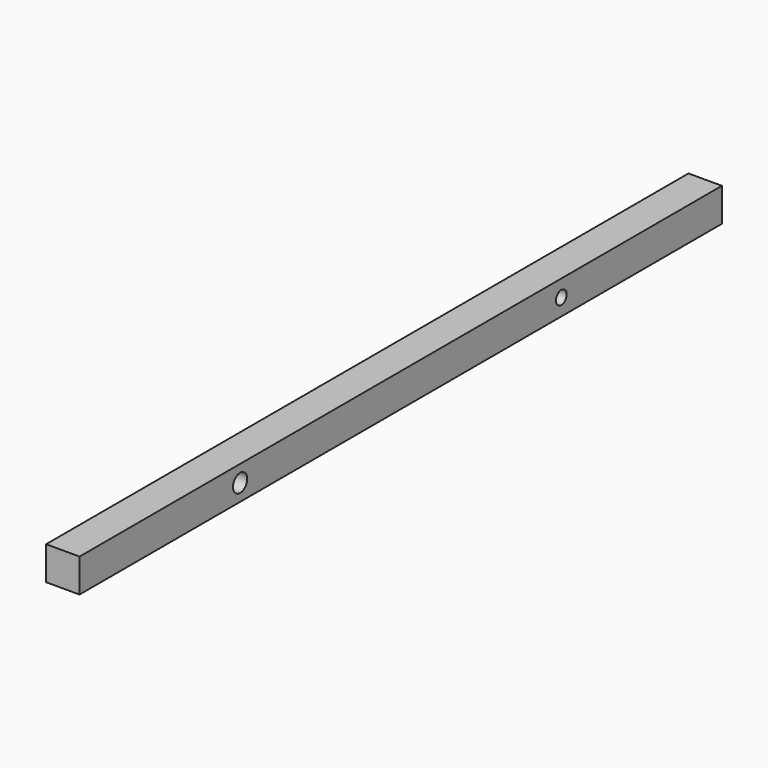
from build123d import *

# Parameters (mm, degrees)
F0_W     = 12.7
F0_H     = 12.7
F1_DEPTH = 304.8
F3_D     = 6.7564
F4_D     = 5.1054


with BuildPart() as f1:
    # F0 (on Front) → F1 (new body)
    with BuildSketch(Plane.XZ):
        with Locations((6.35, 6.35)):
            Rectangle(F0_W, F0_H)
    extrude(amount=F1_DEPTH)

    # F3 (through all)
    with Locations(Plane.YZ.offset(12.7)):
        with Locations((-228.6, 6.35)):
            Hole(F3_D / 2)

    # F4 (through all)
    with Locations(Plane.YZ.offset(12.7)):
        with Locations((-76.2, 6.35)):
            Hole(F4_D / 2)


solid = f1.part
